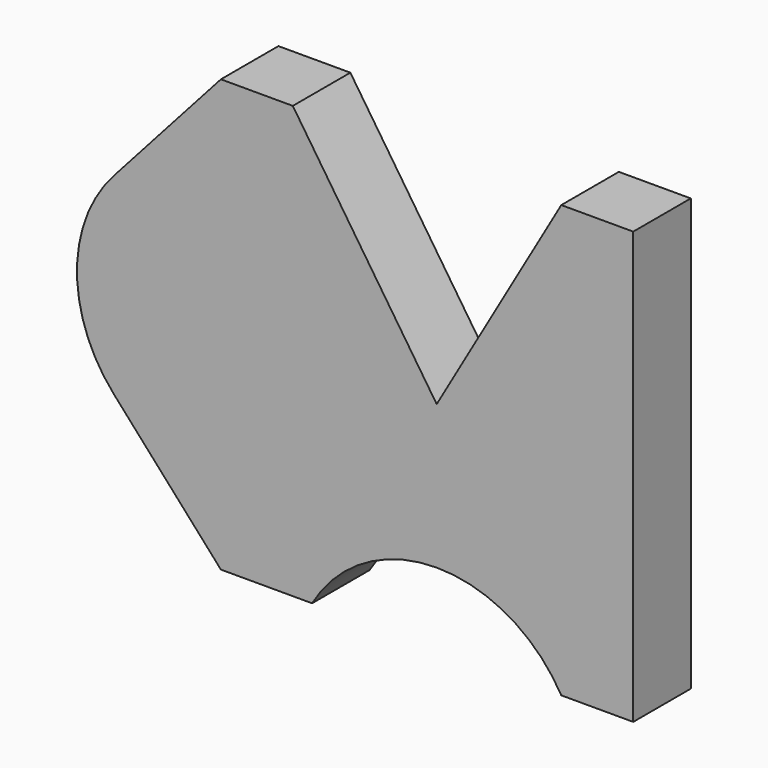
from build123d import *

# Parameters (mm, degrees)
F1_DEPTH = 10


with BuildPart() as f1:
    # F0 (on Front) → F1 (new body)
    with BuildSketch(Plane.XZ):
        with BuildLine():
            Line((0, 0), (-20, 30))
            Line((-20, 30), (-30, 30))
            Line((-30, 30), (-44.90712, 13.333333))
            ThreePointArc((-44.90712, 13.333333), (-50, 0), (-44.90712, -13.333333))
            Line((-44.90712, -13.333333), (-30, -30))
            Line((-30, -30), (-17.320508, -30))
            ThreePointArc((-17.320508, -30), (0, -20), (17.320508, -30))
            Line((17.320508, -30), (27.320508, -30))
            Line((27.320508, -30), (27.320508, 30))
            Line((27.320508, 30), (17.320508, 30))
            Line((17.320508, 30), (0, 0))
        make_face()
    extrude(amount=F1_DEPTH)


solid = f1.part
